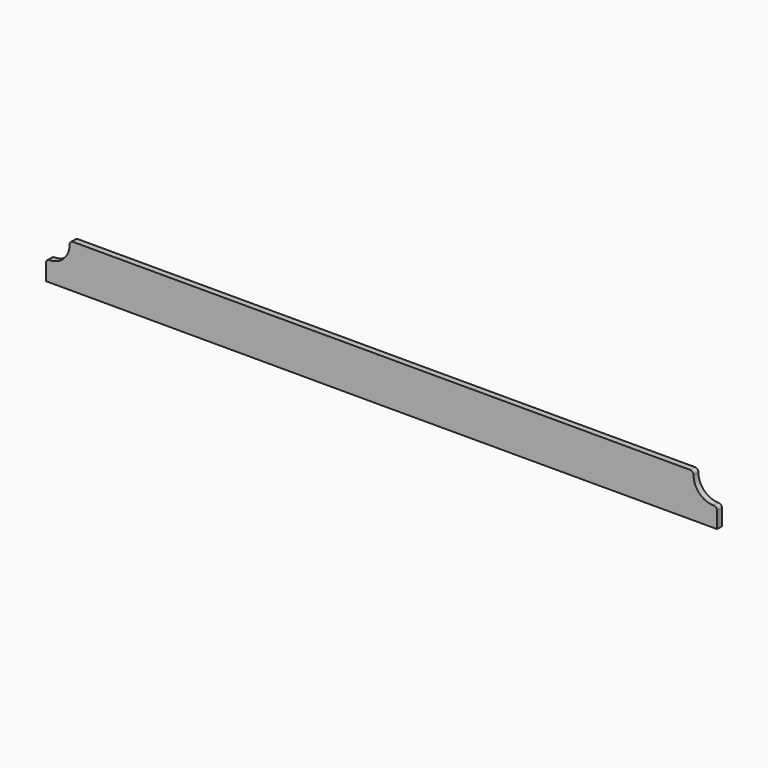
from build123d import *

# Parameters (mm, degrees)
F3_DEPTH = 9


with BuildPart() as f3:
    # F2 (on face) → F3 (new body)
    with BuildSketch(Plane.XZ):
        with BuildLine():
            Line((499.149203, -499.739617), (499.149203, -475.399231))
            ThreePointArc((499.149203, -475.399231), (497.684737, -471.863697), (494.149203, -470.399231))
            ThreePointArc((494.149203, -470.399231), (472.936, -461.612434), (464.149203, -440.399231))
            Line((464.149203, -440.399231), (464.149203, -440.169142))
            ThreePointArc((464.149203, -440.169142), (462.684737, -436.633608), (459.149203, -435.169142))
            Line((459.149203, -435.169142), (0, -435.169142))
            Line((0, -435.169142), (-459.149203, -435.169142))
            ThreePointArc((-459.149203, -435.169142), (-462.684737, -436.633608), (-464.149203, -440.169142))
            Line((-464.149203, -440.169142), (-464.149203, -440.399231))
            ThreePointArc((-464.149203, -440.399231), (-472.936, -461.612434), (-494.149203, -470.399231))
            ThreePointArc((-494.149203, -470.399231), (-497.684737, -471.863697), (-499.149203, -475.399231))
            Line((-499.149203, -475.399231), (-499.149203, -499.739617))
            Line((-499.149203, -499.739617), (0, -500))
            Line((0, -500), (499.149203, -499.739617))
        make_face()
    extrude(amount=F3_DEPTH)


solid = f3.part
